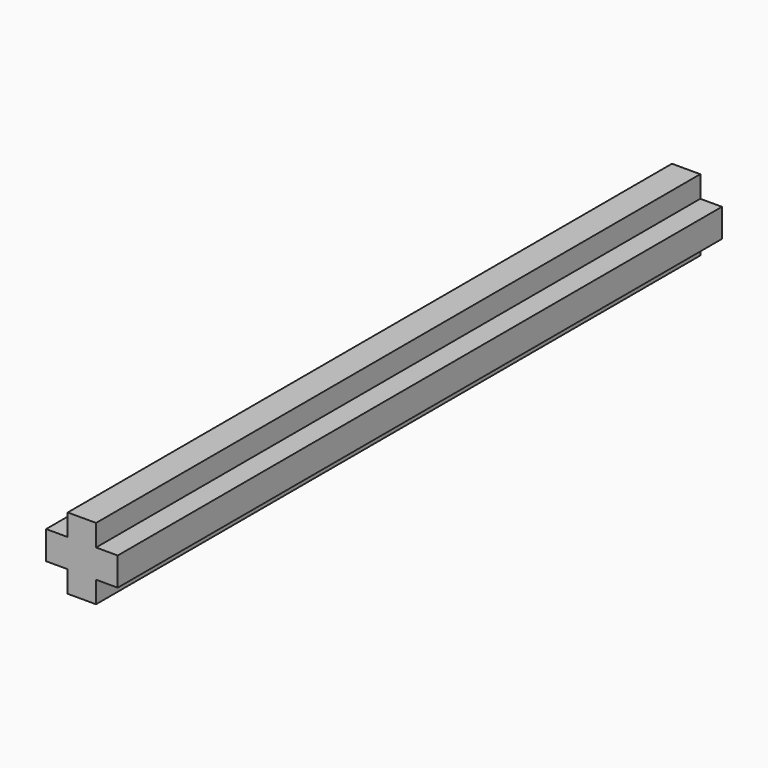
from build123d import *

# Parameters (mm, degrees)
F0_W     = 0.89
F0_H     = 0.89
F1_DEPTH = 23.72


with BuildPart() as f1:
    # F0 (on Front) → F1 (new body, symmetric)
    with BuildSketch(Plane.XZ):
        Polygon((-0.89, 0.89), (-2.25, 0.89), (-2.25, -0.89), (-0.89, -0.89), (-0.89, 0), align=None)
        Polygon((-0.89, 2.25), (-0.89, 0.89), (0, 0.89), (0.89, 0.89), (0.89, 2.25), align=None)
        with Locations((-0.445, 0.445)):
            Rectangle(F0_W, F0_H)
        with Locations((0.445, 0.445)):
            Rectangle(F0_W, F0_H)
        with Locations((-0.445, -0.445)):
            Rectangle(F0_W, F0_H)
        Polygon((0, -0.89), (-0.89, -0.89), (-0.89, -2.25), (0.89, -2.25), (0.89, -0.89), align=None)
        Polygon((2.25, 0.89), (0.89, 0.89), (0.89, 0), (0.89, -0.89), (2.25, -0.89), align=None)
        with Locations((0.445, -0.445)):
            Rectangle(F0_W, F0_H)
    extrude(amount=F1_DEPTH, both=True)


solid = f1.part
